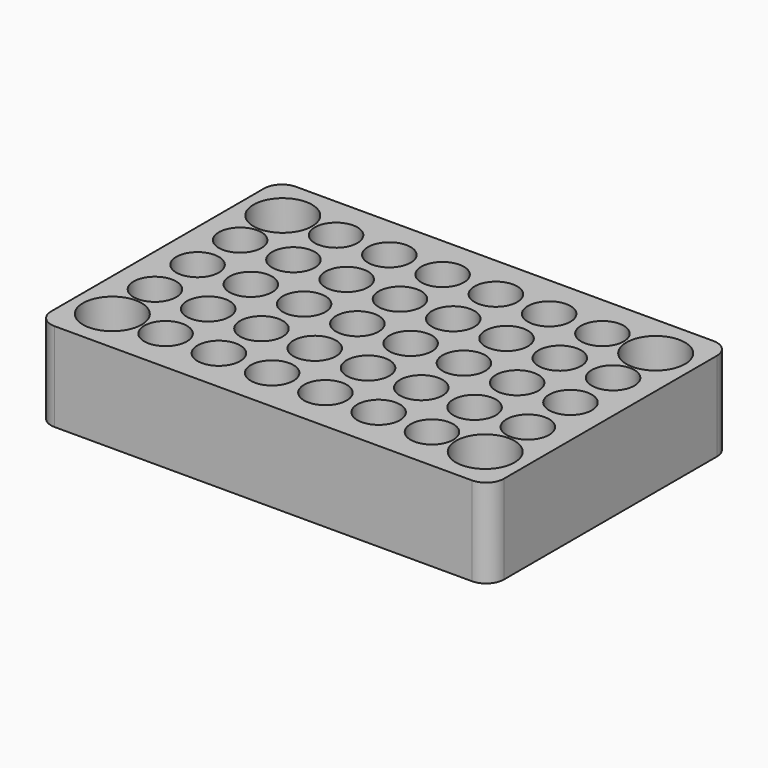
from build123d import *

# Parameters (mm, degrees)
F1_DEPTH = 25
F2_R     = 6
F2_R_2   = 8.25
F3_DEPTH = 20


with BuildPart() as f1:
    # F0 (on Top) → F1 (new body)
    with BuildSketch(Plane.XY):
        with BuildLine():
            Line((-58.75, -42.5), (58.75, -42.5))
            ThreePointArc((58.75, -42.5), (62.285534, -41.035534), (63.75, -37.5))
            Line((63.75, -37.5), (63.75, 37.5))
            ThreePointArc((63.75, 37.5), (62.285534, 41.035534), (58.75, 42.5))
            Line((58.75, 42.5), (-58.75, 42.5))
            ThreePointArc((-58.75, 42.5), (-62.285534, 41.035534), (-63.75, 37.5))
            Line((-63.75, 37.5), (-63.75, -37.5))
            ThreePointArc((-63.75, -37.5), (-62.285534, -41.035534), (-58.75, -42.5))
        make_face()
    extrude(amount=F1_DEPTH)

    # F2 (on face) → F3 (cut)
    with BuildSketch(Plane.XY.offset(25)):
        with Locations((-52.5, 15)):
            Circle(F2_R)
        with Locations((-52.5, 0)):
            Circle(F2_R)
        with Locations((-52.5, -15)):
            Circle(F2_R)
        with Locations((-37.5, 30)):
            Circle(F2_R)
        with Locations((-37.5, 15)):
            Circle(F2_R)
        with Locations((-37.5, 0)):
            Circle(F2_R)
        with Locations((-37.5, -15)):
            Circle(F2_R)
        with Locations((-37.5, -30)):
            Circle(F2_R)
        with Locations((-22.5, 30)):
            Circle(F2_R)
        with Locations((-22.5, 15)):
            Circle(F2_R)
        with Locations((-22.5, 0)):
            Circle(F2_R)
        with Locations((-22.5, -15)):
            Circle(F2_R)
        with Locations((-22.5, -30)):
            Circle(F2_R)
        with Locations((-7.5, 30)):
            Circle(F2_R)
        with Locations((-7.5, 15)):
            Circle(F2_R)
        with Locations((-7.5, 0)):
            Circle(F2_R)
        with Locations((-7.5, -15)):
            Circle(F2_R)
        with Locations((-7.5, -30)):
            Circle(F2_R)
        with Locations((7.5, 30)):
            Circle(F2_R)
        with Locations((7.5, 15)):
            Circle(F2_R)
        with Locations((7.5, 0)):
            Circle(F2_R)
        with Locations((7.5, -15)):
            Circle(F2_R)
        with Locations((7.5, -30)):
            Circle(F2_R)
        with Locations((22.5, 30)):
            Circle(F2_R)
        with Locations((22.5, 15)):
            Circle(F2_R)
        with Locations((22.5, 0)):
            Circle(F2_R)
        with Locations((22.5, -15)):
            Circle(F2_R)
        with Locations((22.5, -30)):
            Circle(F2_R)
        with Locations((37.5, 30)):
            Circle(F2_R)
        with Locations((37.5, 15)):
            Circle(F2_R)
        with Locations((37.5, 0)):
            Circle(F2_R)
        with Locations((37.5, -15)):
            Circle(F2_R)
        with Locations((37.5, -30)):
            Circle(F2_R)
        with Locations((52.5, 15)):
            Circle(F2_R)
        with Locations((52.5, 0)):
            Circle(F2_R)
        with Locations((52.5, -15)):
            Circle(F2_R)
        with Locations((-52.5, 30)):
            Circle(F2_R_2)
        with Locations((-52.5, -30)):
            Circle(F2_R_2)
        with Locations((52.5, 30)):
            Circle(F2_R_2)
        with Locations((52.5, -30)):
            Circle(F2_R_2)
    extrude(amount=-F3_DEPTH, mode=Mode.SUBTRACT)


solid = f1.part
